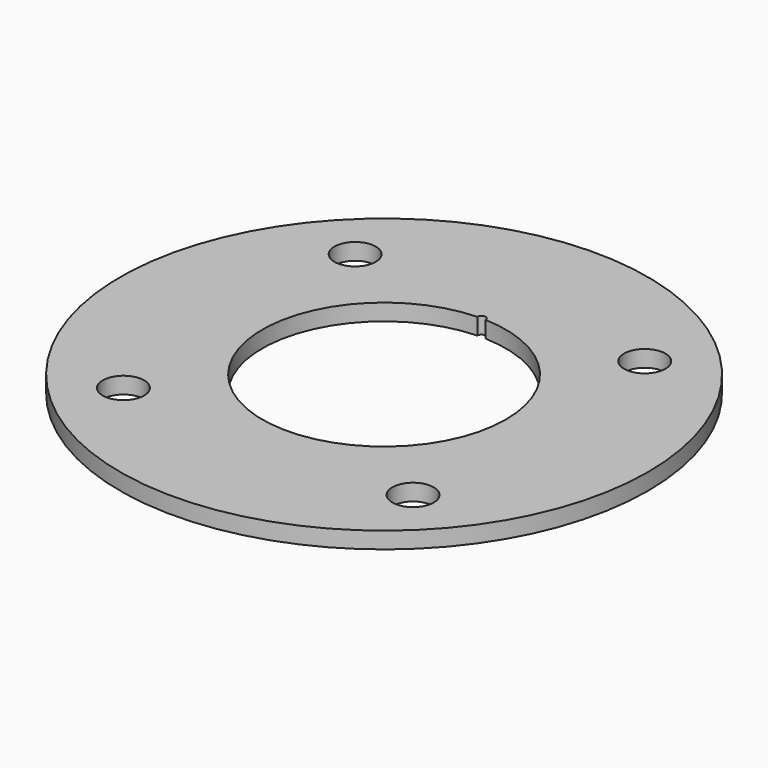
from build123d import *

# Parameters (mm, degrees)
F0_R     = 20.2565
F0_R_2   = 1.5875
F1_DEPTH = 1.27


with BuildPart() as f1:
    # F0 (on Top) → F1 (new body)
    with BuildSketch(Plane.XY):
        Circle(F0_R)
        with Locations((-11.1125, -11.1125)):
            Circle(F0_R_2, mode=Mode.SUBTRACT)
        with Locations((11.1125, -11.1125)):
            Circle(F0_R_2, mode=Mode.SUBTRACT)
        with Locations((-11.1125, 11.1125)):
            Circle(F0_R_2, mode=Mode.SUBTRACT)
        with BuildLine():
            ThreePointArc((0.317454, 9.341808), (6.720768, 6.496262), (9.3472, 0))
            ThreePointArc((9.3472, 0), (-6.496262, -6.720768), (-0.317454, 9.341808))
            ThreePointArc((-0.317454, 9.341808), (-0.002696, 9.664689), (0.3175, 9.3472))
            ThreePointArc((0.3175, 9.3472), (0.317489, 9.344504), (0.317454, 9.341808))
        make_face(mode=Mode.SUBTRACT)
        with Locations((11.1125, 11.1125)):
            Circle(F0_R_2, mode=Mode.SUBTRACT)
    extrude(amount=F1_DEPTH)


solid = f1.part
